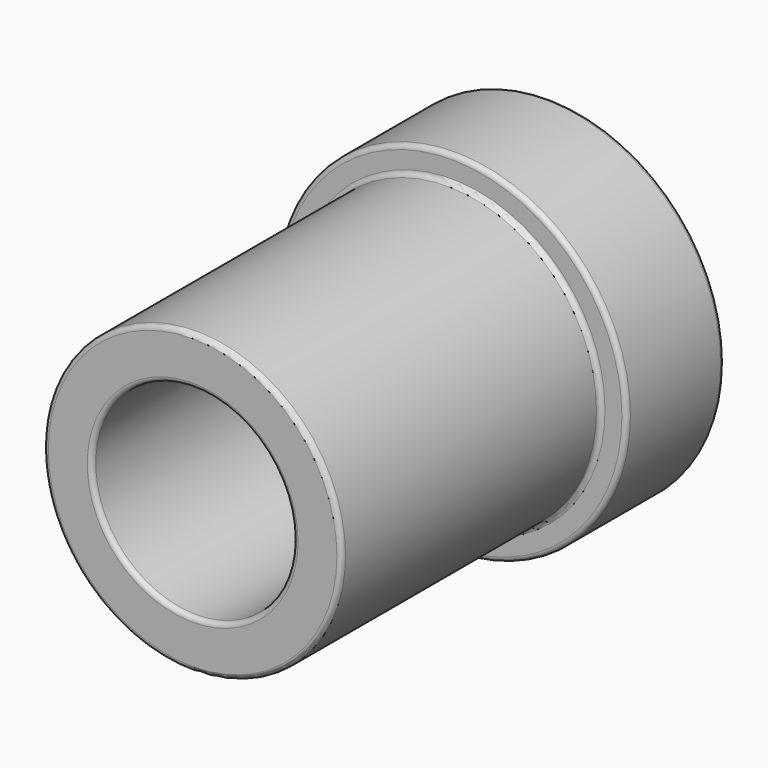
from build123d import *

# Parameters (mm, degrees)
F0_R     = 7.38
F0_R_2   = 4.235
F1_DEPTH = 5.14
F2_R     = 6.27
F2_R_2   = 4.235
F3_DEPTH = 13.6
F4_R     = 0.2


with BuildPart() as f1:
    # F0 (on Front) → F1 (new body)
    with BuildSketch(Plane.XZ):
        Circle(F0_R)
        Circle(F0_R_2, mode=Mode.SUBTRACT)
    extrude(amount=F1_DEPTH)

    # F2 (on face) → F3 (join)
    with BuildSketch(Plane.XZ.offset(5.14)):
        Circle(F2_R)
        Circle(F2_R_2, mode=Mode.SUBTRACT)
    extrude(amount=F3_DEPTH)

    # F4
    f4_edges = [f1.edges().sort_by_distance(p)[0] for p in [
        (-6.27, -18.74, 0),
        (-7.38, -5.14, 0),
        (-7.38, 0, 0),
        (-4.235, -18.74, 0),
        (-6.27, -5.14, 0),
        (-4.235, 0, 0),
    ]]
    fillet(f4_edges, radius=F4_R)


solid = f1.part
